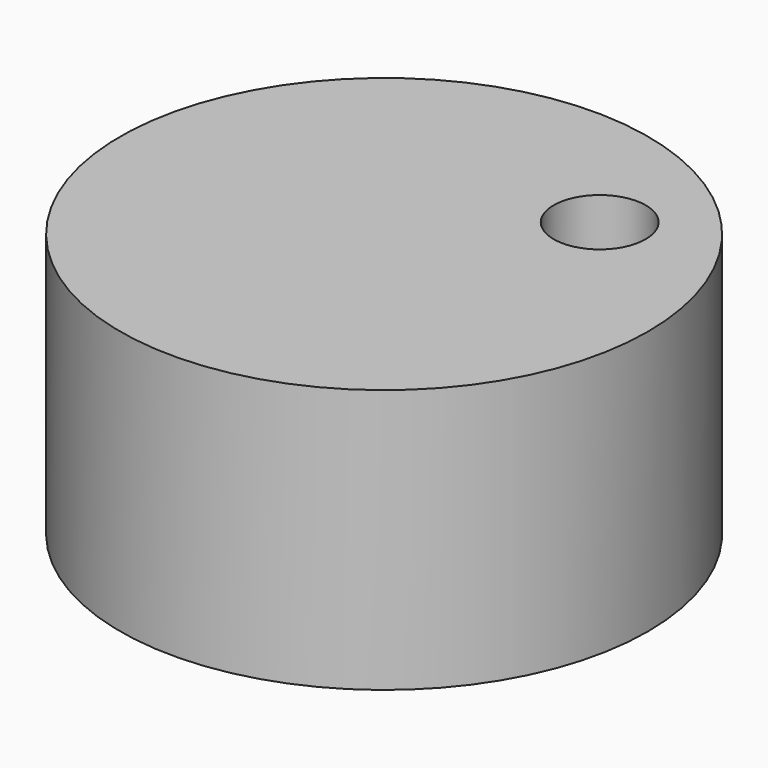
from build123d import *

# Parameters (mm, degrees)
F0_W     = 30
F0_H     = 30
F2_R     = 5.231126
F3_DEPTH = 46.476029


with BuildPart() as f1:
    # F0 (on Front) → F1 (revolve)
    with BuildSketch(Plane.XZ):
        with Locations((15, 15)):
            Rectangle(F0_W, F0_H)
    revolve(axis=Axis((0, 0, 15), (0, 0, 1)))

    # F2 (on face) → F3 (cut)
    with BuildSketch(Plane.XY.offset(30)):
        with Locations((13.519764, 13.72496)):
            Circle(F2_R)
    extrude(amount=-F3_DEPTH, mode=Mode.SUBTRACT)


solid = f1.part
